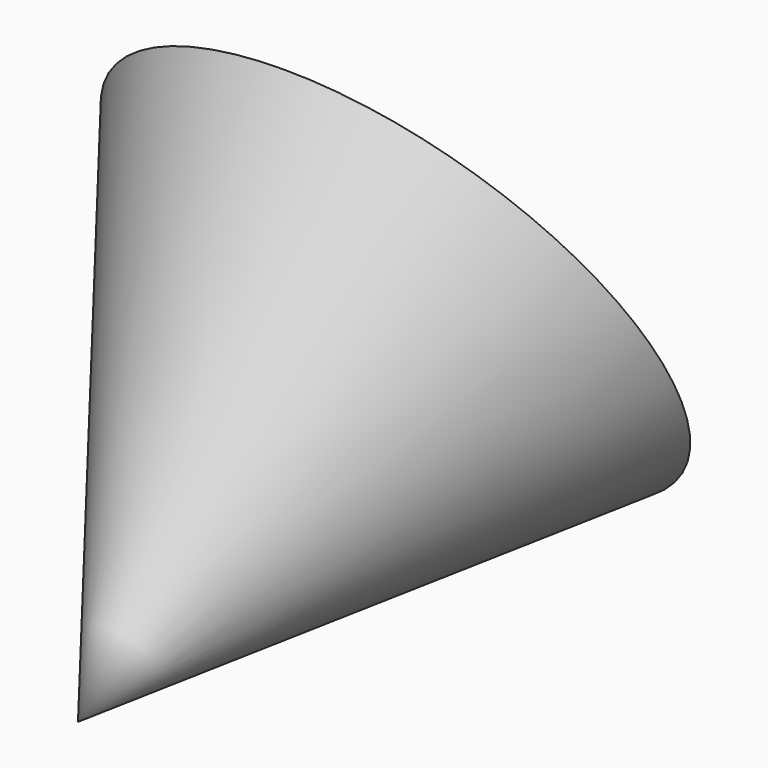
from build123d import *


with BuildPart() as f1:
    # F0 (on Right) → F1 (revolve)
    with BuildSketch(Plane.YZ):
        Polygon((68.0904388428, 13.8564798981), (33.8217243552, 56.468885392), (-37.9935801029, 14.154468663), align=None)
    revolve(axis=Axis((0, -2.0859278738, 35.3116770275), (0, 0.8615663569, 0.5076449671)))


solid = f1.part
